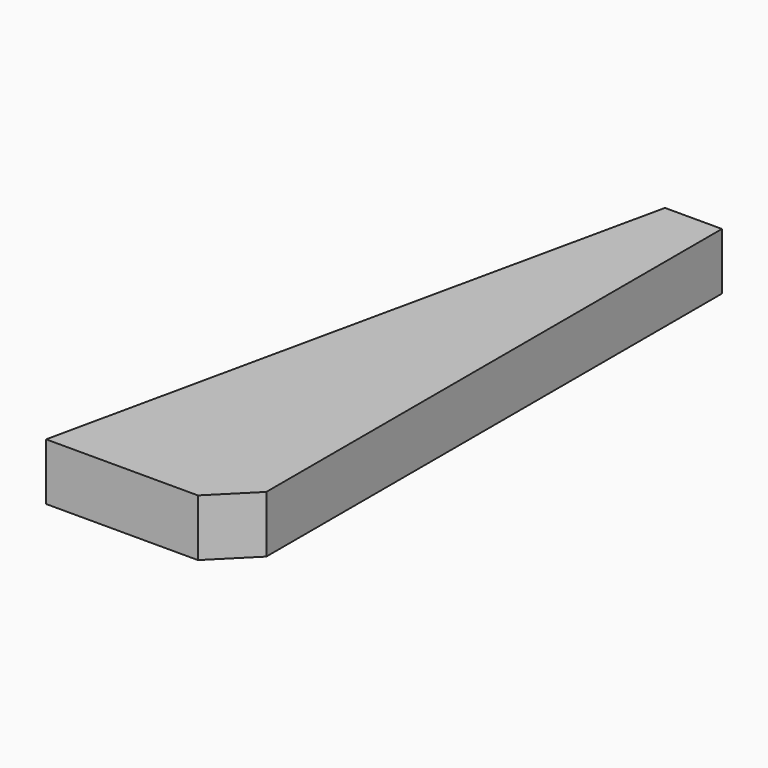
from build123d import *

# Parameters (mm, degrees)
F1_DEPTH = 15
F2_SIZE2 = 10
F2_SIZE  = 10


with BuildPart() as f1:
    # F0 (on Top) → F1 (new body)
    with BuildSketch(Plane.XY):
        Polygon((35, 160), (0, 0), (50, 0), (50, 160), align=None)
    extrude(amount=F1_DEPTH)

    # F2
    f2_edges = [f1.edges().sort_by_distance(p)[0] for p in [
        (50, 0, 7.5),
    ]]
    chamfer(f2_edges, length=F2_SIZE, length2=F2_SIZE2)


solid = f1.part
